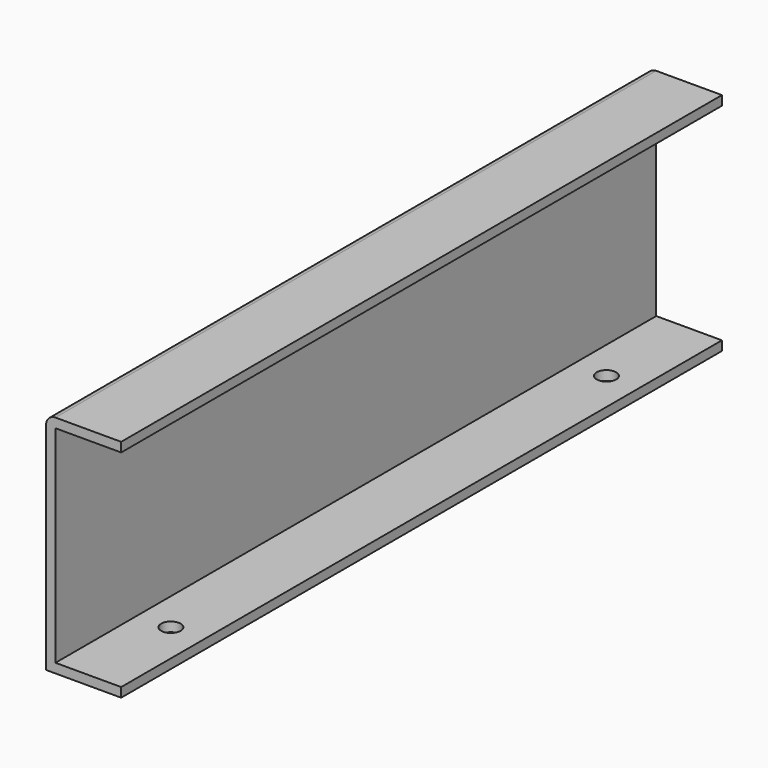
from build123d import *

# Parameters (mm, degrees)
F1_DEPTH = 254
F3_D     = 6.6
F3_DEPTH = 15
F3_TIP   = 1.9828400428
F4_R     = 3.175


with BuildPart() as f1:
    # F0 (on Front) → F1 (new body)
    with BuildSketch(Plane.XZ):
        Polygon((0, 34.925), (0, 38.1), (-25.4, 38.1), (-25.4, -38.1), (0, -38.1), (0, -34.925), (-22.225, -34.925), (-22.225, 34.925), align=None)
    extrude(amount=F1_DEPTH)

    # F3
    with Locations(Plane(origin=(0, 0, -38.1), x_dir=(1, 0, 0), z_dir=(0, 0, -1))):
        with Locations((-11.1125, 219.075), (-11.1125, 34.925)):
            Hole(F3_D / 2, depth=F3_DEPTH)
            with Locations((0, 0, -(F3_DEPTH + F3_TIP / 2))):  # 118° drill point
                Cone(0, F3_D / 2, F3_TIP, mode=Mode.SUBTRACT)

    # F4
    f4_edges = [f1.edges().sort_by_distance(p)[0] for p in [
        (-25.4, -127, 38.1),
    ]]
    fillet(f4_edges, radius=F4_R)


solid = f1.part
